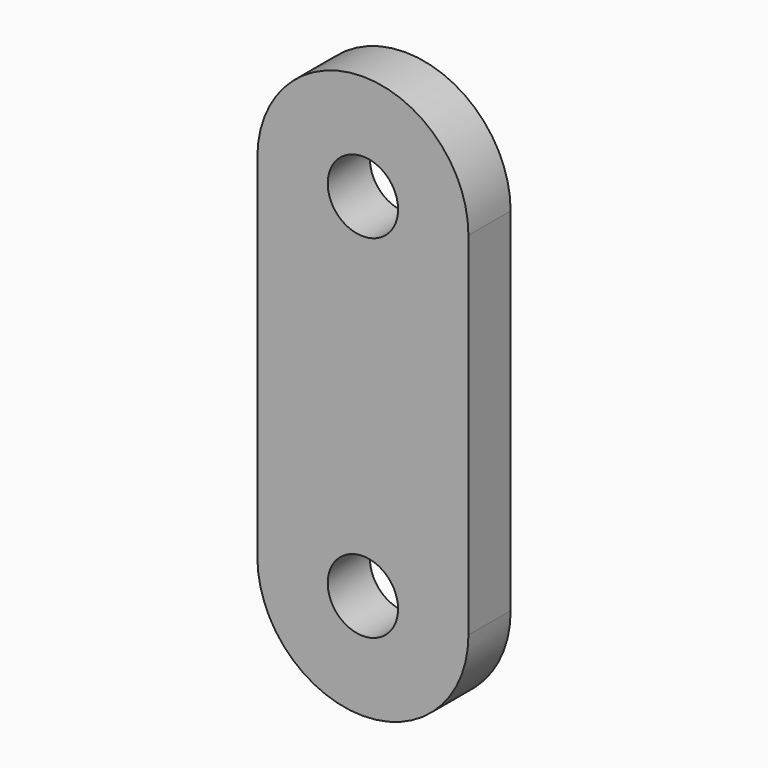
from build123d import *

# Parameters (mm, degrees)
F1_DEPTH = 3


with BuildPart() as f1:
    # F0 (on Front) → F1 (new body)
    with BuildSketch(Plane.XZ):
        with BuildLine():
            Line((2, 0), (6, 0))
            ThreePointArc((6, 0), (0, 6), (-6, 0))
            Line((-6, 0), (-2, 0))
            ThreePointArc((-2, 0), (0, 2), (2, 0))
        make_face()
        with BuildLine():
            Line((6, -20), (6, 0))
            ThreePointArc((6, 0), (0, -6), (-6, 0))
            Line((-6, 0), (-6, -20))
            ThreePointArc((-6, -20), (0, -14), (6, -20))
        make_face()
        with BuildLine():
            ThreePointArc((-6, 0), (0, -6), (6, 0))
            Line((6, 0), (2, 0))
            ThreePointArc((2, 0), (0, -2), (-2, 0))
            Line((-2, 0), (-6, 0))
        make_face()
        with BuildLine():
            Line((2, -20), (6, -20))
            ThreePointArc((6, -20), (0, -14), (-6, -20))
            Line((-6, -20), (-2, -20))
            ThreePointArc((-2, -20), (0, -18), (2, -20))
        make_face()
        with BuildLine():
            ThreePointArc((-6, -20), (0, -26), (6, -20))
            Line((6, -20), (2, -20))
            ThreePointArc((2, -20), (0, -22), (-2, -20))
            Line((-2, -20), (-6, -20))
        make_face()
    extrude(amount=F1_DEPTH)


solid = f1.part
